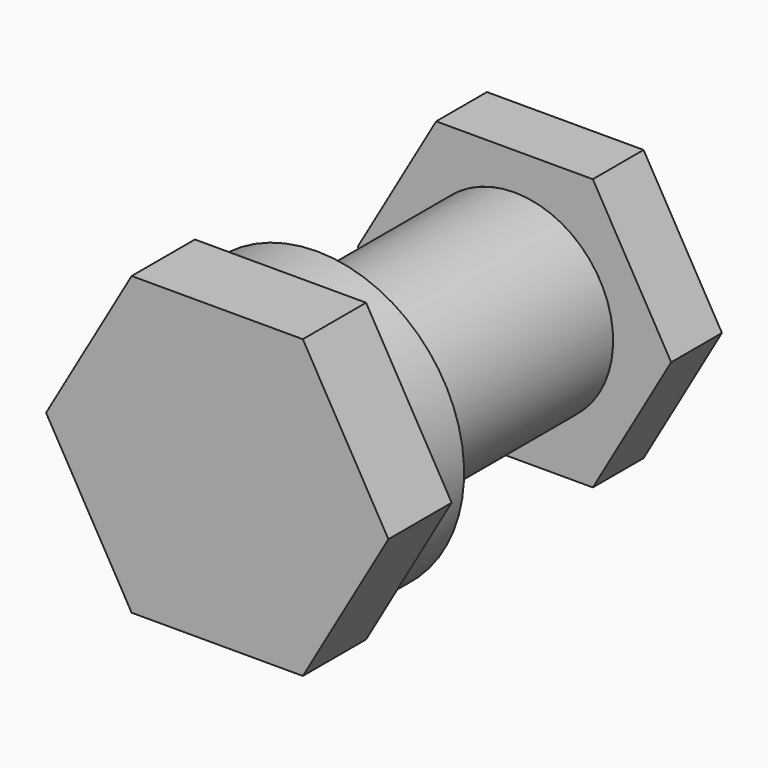
from build123d import *

# Parameters (mm, degrees)
F2_R     = 18.923
F3_DEPTH = 10.16
F4_R     = 12.6746
F5_DEPTH = 8.1534


with BuildPart() as f1:
    # F0 (on Right) → F1 (revolve)
    with BuildSketch(Plane.YZ):
        Polygon((0, 18.923), (0, 0), (47.752, 0), (47.752, 12.6746), (17.907, 12.6746), (17.907, 11.43), (16.002, 11.43), (16.002, 18.923), align=None)
    revolve(axis=Axis((0, 23.876, 0), (0, -1, 0)))

    # F2 (on face) → F3 (join)
    with BuildSketch(Plane.XZ):
        Polygon((-10.998523, -19.05), (10.998523, -19.05), (21.997045, 0), (10.998523, 19.05), (-10.998523, 19.05), (-21.997045, 0), align=None)
        Circle(F2_R, mode=Mode.SUBTRACT)
    extrude(amount=-F3_DEPTH)


with BuildPart() as f5:
    # F4 (on face) → F5 (new body)
    with BuildSketch(Plane(origin=(0, 47.752, 0), x_dir=(-1, 0, 0), z_dir=(0, 1, 0))):
        Polygon((10.067314, 17.4371), (-10.067314, 17.4371), (-20.134629, 0), (-10.067314, -17.4371), (10.067314, -17.4371), (20.134629, 0), align=None)
        Circle(F4_R, mode=Mode.SUBTRACT)
    extrude(amount=F5_DEPTH)


solid = Compound([f1.part, f5.part])
